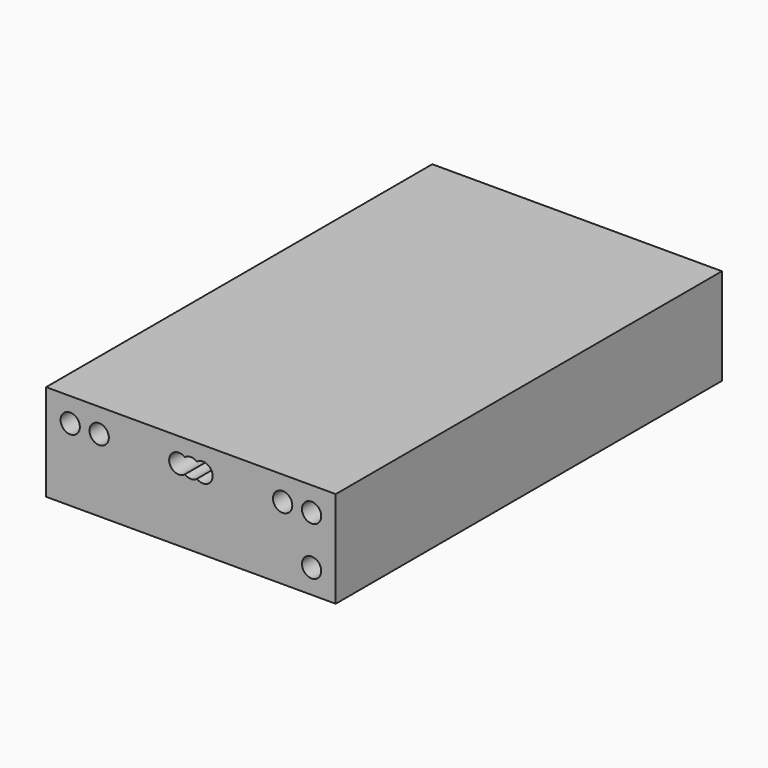
from build123d import *

# Parameters (mm, degrees)
F0_W     = 120
F0_H     = 40
F0_R     = 4
F1_DEPTH = 200


with BuildPart() as f1:
    # F0 (on Front) → F1 (new body)
    with BuildSketch(Plane.XZ):
        Rectangle(F0_W, F0_H)
        with Locations((50, -10)):
            Circle(F0_R, mode=Mode.SUBTRACT)
        with Locations((-50, 10)):
            Circle(F0_R, mode=Mode.SUBTRACT)
        with Locations((-38, 10)):
            Circle(F0_R, mode=Mode.SUBTRACT)
        with BuildLine():
            ThreePointArc((2.5, 13.122499), (6.732051, 13.605551), (9, 10))
            ThreePointArc((9, 10), (6.732051, 6.394449), (2.5, 6.877501))
            ThreePointArc((2.5, 6.877501), (0, 6), (-2.5, 6.877501))
            ThreePointArc((-2.5, 6.877501), (-9, 10), (-2.5, 13.122499))
            ThreePointArc((-2.5, 13.122499), (0, 14), (2.5, 13.122499))
        make_face(mode=Mode.SUBTRACT)
        with Locations((38, 10)):
            Circle(F0_R, mode=Mode.SUBTRACT)
        with Locations((50, 10)):
            Circle(F0_R, mode=Mode.SUBTRACT)
    extrude(amount=F1_DEPTH)


solid = f1.part
